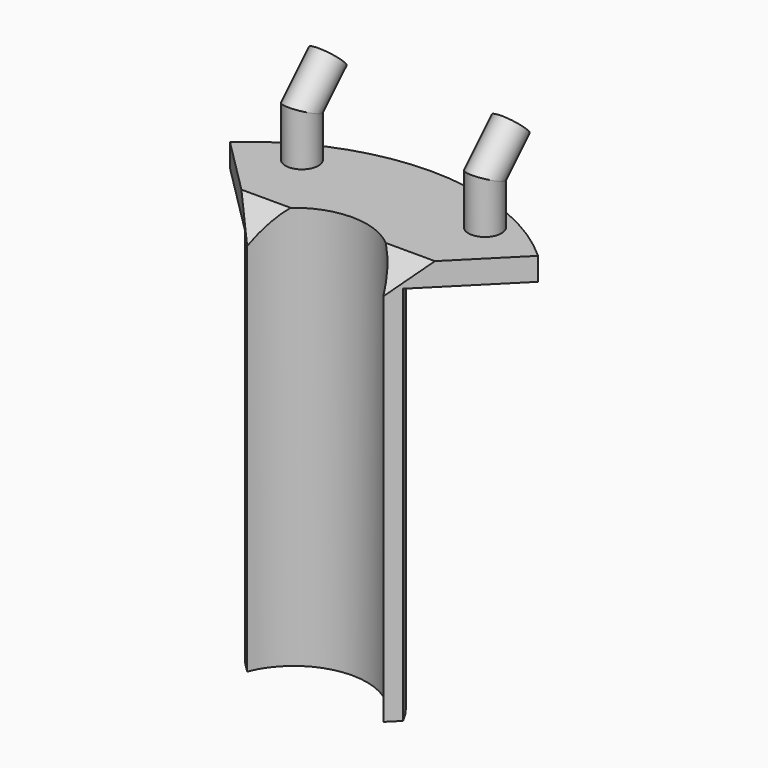
from build123d import *

# Parameters (mm, degrees)
F0_W      = 31.75
F0_H      = 9.525
F1_DEPTH  = 3.175
F4_R      = 2.286
F8_R      = 2.286
F11_DEPTH = 3.175
F13_DEPTH = 52.79898
F15_DEPTH = 25.4
F17_DEPTH = 2


with BuildPart() as f1:
    # F0 (on Top) → F1 (new body)
    with BuildSketch(Plane.XY):
        with Locations((15.875, 4.7625)):
            Rectangle(F0_W, F0_H)
    extrude(amount=F1_DEPTH)

    # F5: sweep along a path in F3
    with BuildLine(Plane.YZ.offset(28.575)) as f5_path:
        Line((7.1374, 3.175), (7.1374, 9.525))
        Line((7.1374, 9.525), (11.6275280605, 14.0151280605))
    # F4 (on face) → F5 (sweep)
    with BuildSketch(Plane.XY.offset(3.175)):
        with Locations((28.575, 7.1374)):
            Circle(F4_R)
    sweep(path=f5_path.line, transition=Transition.RIGHT)

    # F9: sweep along a path in F7
    with BuildLine(Plane.YZ.offset(3.175)) as f9_path:
        Line((7.1374, 3.175), (7.1374, 9.525))
        Line((7.1374, 9.525), (11.6275280605, 14.0151280605))
    # F8 (on face) → F9 (sweep)
    with BuildSketch(Plane.XY.offset(3.175)):
        with Locations((3.175, 7.1374)):
            Circle(F8_R)
    sweep(path=f9_path.line, transition=Transition.RIGHT)

    # F10 (on face) → F11 (join, through all)
    with BuildSketch(Plane.XY.offset(3.175)):
        with BuildLine():
            Line((25.3239712887, -6.4260287113), (37.2530060984, 5.5030060984))
            ThreePointArc((37.2530060984, 5.5030060984), (15.875, 13.7786934298), (-5.5030060984, 5.5030060984))
            Line((-5.5030060984, 5.5030060984), (6.4260287113, -6.4260287113))
            ThreePointArc((6.4260287113, -6.4260287113), (15.875, 0), (25.3239712887, -6.4260287113))
        make_face()
    extrude(amount=-F11_DEPTH)

    # F12 (on face) → F13 (join)
    with BuildSketch(Plane(origin=(0, 0, 0), x_dir=(1, 0, 0), z_dir=(0, 0, -1))):
        with BuildLine():
            Line((6.4260287113, 6.4260287113), (4.9077839908, 4.9077839908))
            ThreePointArc((4.9077839908, 4.9077839908), (15.875, -2), (26.8422160092, 4.9077839908))
            Line((26.8422160092, 4.9077839908), (25.3239712887, 6.4260287113))
            ThreePointArc((25.3239712887, 6.4260287113), (15.875, 0), (6.4260287113, 6.4260287113))
        make_face()
    extrude(amount=F13_DEPTH)

    # F14 (on face) → F15 (cut)
    with BuildSketch(Plane(origin=(0, 12.8213280605, 12.8213280605), x_dir=(1, 0, 0), z_dir=(0, 0.7071067812, 0.7071067812))):
        Polygon((3.175, -3.9742881508), (2.4454922036, -3.9742881508), (2.4454922036, -10.2548293379), (29.3045077964, -10.2548293379), (29.3045077964, -3.9742881508), align=None)
    extrude(amount=-F15_DEPTH, mode=Mode.SUBTRACT)

    # F16 (on face) → F17 (join)
    with BuildSketch(Plane(origin=(0, 0, -52.79898), x_dir=(1, 0, 0), z_dir=(0, 0, -1))):
        with BuildLine():
            ThreePointArc((17.4591143082, -1.8963751542), (15.875, -2), (14.2908856918, -1.8963751542))
            ThreePointArc((14.2908856918, -1.8963751542), (15.875, -3.5875), (17.4591143082, -1.8963751542))
        make_face()
    extrude(amount=-F17_DEPTH)


solid = f1.part
